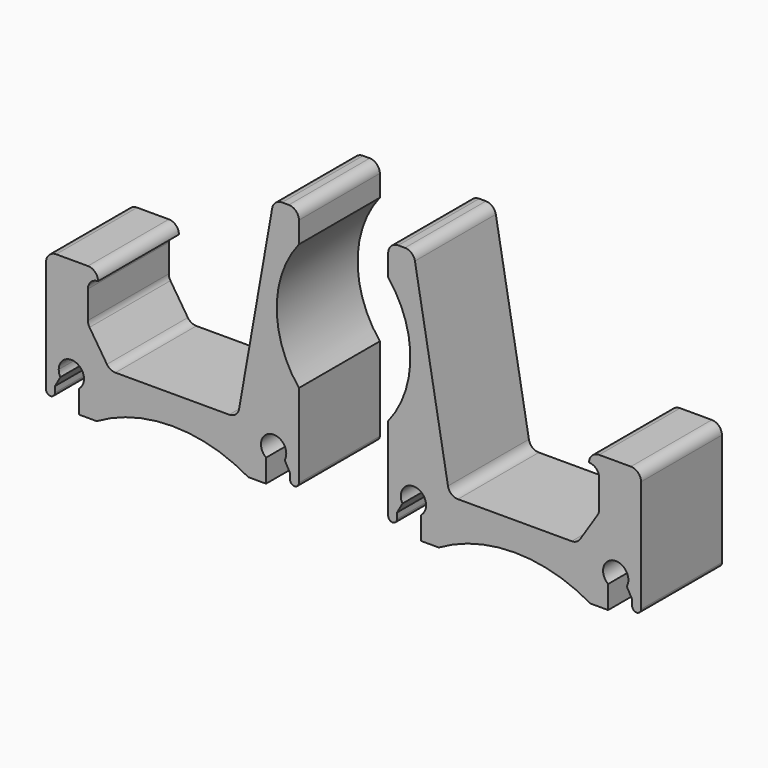
from build123d import *

# Parameters (mm, degrees)
F1_DEPTH = 20


with BuildPart() as f1:
    # F0 (on Front) → F1 (new body)
    with BuildSketch(Plane.XZ):
        with BuildLine():
            ThreePointArc((-38.324347, 14.797959), (-38.910133, 16.212173), (-40.324347, 16.797959))
            Line((-40.324347, 16.797959), (-46.596433, 16.797959))
            ThreePointArc((-46.596433, 16.797959), (-48.010647, 16.212173), (-48.596433, 14.797959))
            Line((-48.596433, 14.797959), (-48.596433, -7.37829))
            ThreePointArc((-48.596433, -7.37829), (-47.721433, -8.25329), (-46.846433, -7.37829))
            Line((-46.846433, -7.37829), (-46.846433, -6.242791))
            Line((-46.846433, -6.242791), (-45.777943, -4.328363))
            ThreePointArc((-45.777943, -4.328363), (-46.015501, -3.738253), (-46.096433, -3.107292))
            ThreePointArc((-46.096433, -3.107292), (-42.478399, -0.871224), (-42.096433, -5.107292))
            Line((-42.096433, -5.107292), (-42.096433, -9.649287))
            Line((-42.096433, -9.649287), (-38.596433, -9.649287))
            ThreePointArc((-38.596433, -9.649287), (-23.596433, -5.63005), (-8.596433, -9.649287))
            Line((-8.596433, -9.649287), (-5.096433, -9.649287))
            Line((-5.096433, -9.649287), (-5.096433, -5.107292))
            ThreePointArc((-5.096433, -5.107292), (-4.113924, -0.661437), (-1.414923, -4.328363))
            Line((-1.414923, -4.328363), (-0.346433, -6.242791))
            Line((-0.346433, -6.242791), (-0.346433, -7.37829))
            ThreePointArc((-0.346433, -7.37829), (0.528567, -8.25329), (1.403567, -7.37829))
            Line((1.403567, -7.37829), (1.403567, -5.019944))
            Line((1.403567, -5.019944), (1.403567, 9.131996))
            ThreePointArc((1.403567, 9.131996), (-2.983938, 21.631996), (1.403567, 34.131996))
            Line((1.403567, 34.131996), (1.403567, 38.350713))
            ThreePointArc((1.403567, 38.350713), (0.81778, 39.764926), (-0.596433, 40.350713))
            Line((-0.596433, 40.350713), (-1.918234, 40.350713))
            ThreePointArc((-1.918234, 40.350713), (-3.203809, 39.882801), (-3.88785, 38.698009))
            Line((-3.88785, 38.698009), (-10.419936, 1.652704))
            ThreePointArc((-10.419936, 1.652704), (-11.103977, 0.467911), (-12.389552, 0))
            Line((-12.389552, 0), (-34.884615, 0))
            ThreePointArc((-34.884615, 0), (-35.839467, 0.242656), (-36.562618, 0.911742))
            Line((-36.562618, 0.911742), (-40.00235, 6.215519))
            ThreePointArc((-40.00235, 6.215519), (-40.242159, 6.73633), (-40.324347, 7.303778))
            Line((-40.324347, 7.303778), (-40.324347, 12.796261))
            ThreePointArc((-40.324347, 12.796261), (-39.73856, 14.210475), (-38.324347, 14.796261))
            Line((-38.324347, 14.796261), (-38.324347, 14.797959))
        make_face()
        with BuildLine():
            Line((58.785936, 14.797959), (58.785936, 14.796261))
            ThreePointArc((58.785936, 14.796261), (60.20015, 14.210475), (60.785936, 12.796261))
            Line((60.785936, 12.796261), (60.785936, 7.303778))
            ThreePointArc((60.785936, 7.303778), (60.703748, 6.73633), (60.463939, 6.215519))
            Line((60.463939, 6.215519), (57.024207, 0.911742))
            ThreePointArc((57.024207, 0.911742), (56.301056, 0.242656), (55.346204, 0))
            Line((55.346204, 0), (32.851141, 0))
            ThreePointArc((32.851141, 0), (31.565566, 0.467911), (30.881526, 1.652704))
            Line((30.881526, 1.652704), (24.349439, 38.698009))
            ThreePointArc((24.349439, 38.698009), (23.665398, 39.882801), (22.379823, 40.350713))
            Line((22.379823, 40.350713), (21.058022, 40.350713))
            ThreePointArc((21.058022, 40.350713), (19.643809, 39.764926), (19.058022, 38.350713))
            Line((19.058022, 38.350713), (19.058022, 34.131996))
            ThreePointArc((19.058022, 34.131996), (23.445527, 21.631996), (19.058022, 9.131996))
            Line((19.058022, 9.131996), (19.058022, -7.37829))
            ThreePointArc((19.058022, -7.37829), (19.933022, -8.25329), (20.808022, -7.37829))
            Line((20.808022, -7.37829), (20.808022, -6.242791))
            Line((20.808022, -6.242791), (21.876512, -4.328363))
            ThreePointArc((21.876512, -4.328363), (24.575513, -0.661437), (25.558022, -5.107292))
            Line((25.558022, -5.107292), (25.558022, -9.649287))
            Line((25.558022, -9.649287), (29.058022, -9.649287))
            ThreePointArc((29.058022, -9.649287), (44.058022, -5.63005), (59.058022, -9.649287))
            Line((59.058022, -9.649287), (62.558022, -9.649287))
            Line((62.558022, -9.649287), (62.558022, -5.107292))
            ThreePointArc((62.558022, -5.107292), (63.540532, -0.661437), (66.239532, -4.328363))
            Line((66.239532, -4.328363), (67.308022, -6.242791))
            Line((67.308022, -6.242791), (67.308022, -7.37829))
            ThreePointArc((67.308022, -7.37829), (68.183022, -8.25329), (69.058022, -7.37829))
            Line((69.058022, -7.37829), (69.058022, 14.797959))
            ThreePointArc((69.058022, 14.797959), (68.472236, 16.212173), (67.058022, 16.797959))
            Line((67.058022, 16.797959), (60.785936, 16.797959))
            ThreePointArc((60.785936, 16.797959), (59.371722, 16.212173), (58.785936, 14.797959))
        make_face()
    extrude(amount=F1_DEPTH)


solid = f1.part
